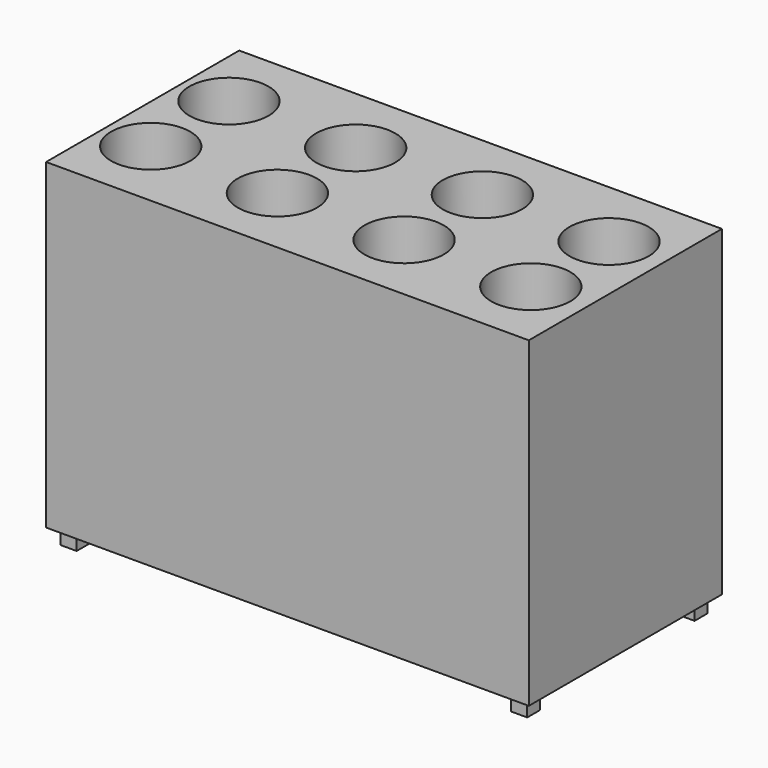
from build123d import *

# Parameters (mm, degrees)
F0_W     = 152.4
F0_H     = 76.2
F1_DEPTH = 101.6
F2_R     = 12.5
F3_DEPTH = 91.44
F4_W     = 5.08
F4_H     = 5.08
F5_DEPTH = 5.08


with BuildPart() as f1:
    # F0 (on Top) → F1 (new body)
    with BuildSketch(Plane.XY):
        with Locations((-332.398888, 3.914099)):
            Rectangle(F0_W, F0_H)
    extrude(amount=F1_DEPTH)

    # F2 (on face) → F3 (cut)
    with BuildSketch(Plane.XY.offset(101.6)):
        with Locations((-393.698888, 19.354099)):
            Circle(F2_R)
        with Locations((-353.698888, 19.354099)):
            Circle(F2_R)
        with Locations((-313.698888, 19.354099)):
            Circle(F2_R)
        with Locations((-273.698888, -11.525901)):
            Circle(F2_R)
        with Locations((-313.698888, -11.525901)):
            Circle(F2_R)
        with Locations((-353.698888, -11.525901)):
            Circle(F2_R)
        with Locations((-393.698888, -11.525901)):
            Circle(F2_R)
        with Locations((-273.698888, 19.354099)):
            Circle(F2_R)
    extrude(amount=-F3_DEPTH, mode=Mode.SUBTRACT)

    # F4 (on face) → F5 (join)
    with BuildSketch(Plane(origin=(0, 0, 0), x_dir=(1, 0, 0), z_dir=(0, 0, -1))):
        with Locations((-403.518888, 29.105901)):
            Rectangle(F4_W, F4_H)
        with Locations((-403.518888, -36.934099)):
            Rectangle(F4_W, F4_H)
        with Locations((-261.278888, -36.934099)):
            Rectangle(F4_W, F4_H)
        with Locations((-261.278888, 29.105901)):
            Rectangle(F4_W, F4_H)
    extrude(amount=F5_DEPTH)


solid = f1.part
